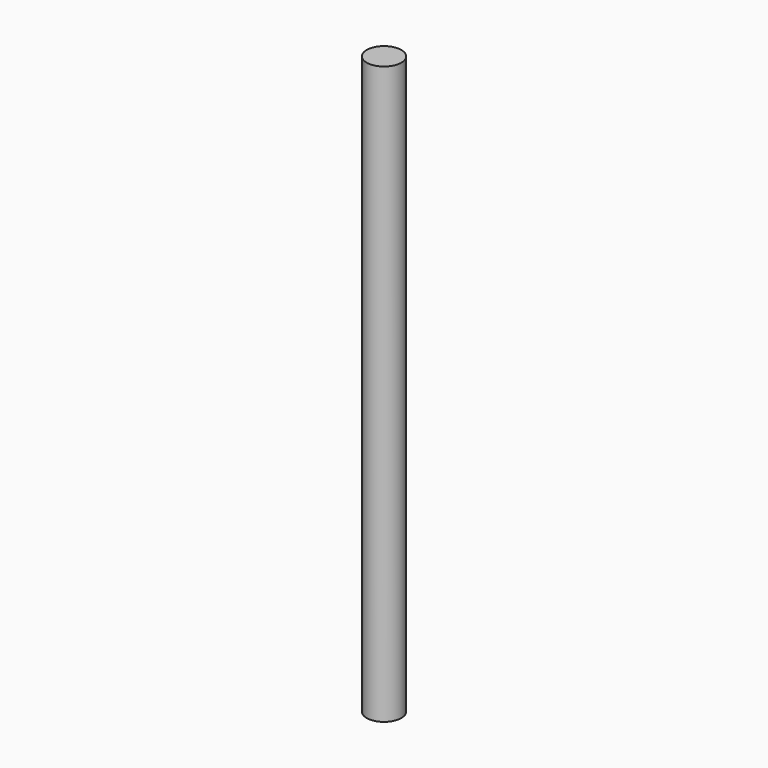
from build123d import *

# Parameters (mm, degrees)
F0_R     = 6
F1_DEPTH = 190
F3_R     = 6
F4_DEPTH = 5
F5_DEPTH = 195


with BuildPart() as f1:
    # F0 (on Top) → F1 (new body)
    with BuildSketch(Plane.XY):
        Circle(F0_R)
    extrude(amount=F1_DEPTH)

    # F3 (on face) → F4 (join)
    with BuildSketch(Plane.XY.offset(190)):
        Circle(F3_R)
    extrude(amount=F4_DEPTH)

    # F3 (on face) → F5 (join)
    with BuildSketch(Plane.XY.offset(190)):
        Circle(F3_R)
    extrude(amount=-F5_DEPTH)


with BuildPart() as f6_1:
    # F6: copy of F1
    add(f1.part)


solid = Compound([f1.part, f6_1.part])
